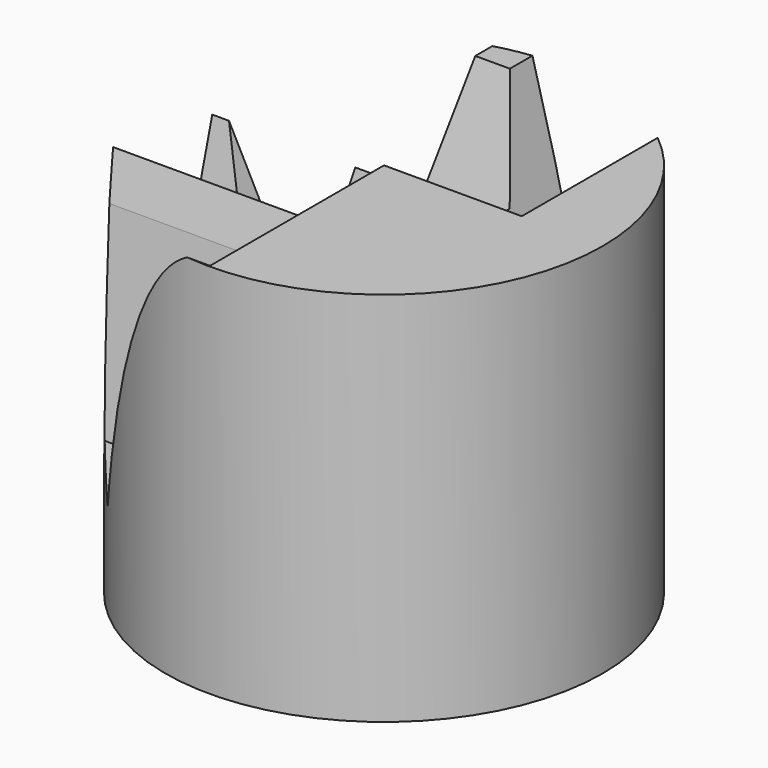
from build123d import *

# Parameters (mm, degrees)
F0_R      = 25
F1_DEPTH  = 43
F3_DEPTH  = 25.001
F5_DEPTH  = 25.001
F7_DEPTH  = 25.001
F9_DEPTH  = 25.001
F11_DEPTH = 25.001


with BuildPart() as f1:
    # F0 (on Top) → F1 (new body)
    with BuildSketch(Plane.XY):
        Circle(F0_R)
    extrude(amount=F1_DEPTH)

    # F2 (on Front) → F3 (cut, through all)
    with BuildSketch(Plane.XZ):
        Polygon((-25.126258, 46.368178), (-13.729673, 10.771434), (-6.131949, 46.368178), align=None)
    extrude(amount=-F3_DEPTH, mode=Mode.SUBTRACT)

    # F4 (on Right) → F5 (cut, through all)
    with BuildSketch(Plane.YZ):
        Polygon((-18.553859, 10.558189), (-9.720897, 43.07955), (-24.877457, 43.07955), align=None)
        Polygon((-8.875068, 43.07955), (0, 10.558189), (6.971865, 43.07955), align=None)
    extrude(amount=-F5_DEPTH, mode=Mode.SUBTRACT)

    # F6 (on Front) → F7 (cut, through all)
    with BuildSketch(Plane.XZ):
        Polygon((15.750895, 43.012153), (-2.902546, 43.012153), (5.133678, 10.685987), align=None)
    extrude(amount=-F7_DEPTH, mode=Mode.SUBTRACT)

    # F8 (on Right) → F9 (cut, through all)
    with BuildSketch(Plane.YZ):
        Polygon((-15.306979, 10.250338), (-10.540752, 43.066985), (-24.638727, 43.066985), align=None)
        Polygon((-10.504041, 43.066985), (-10.452851, 43.066985), (-10.504041, 43.319747), (-10.540752, 43.066985), align=None)
        Polygon((-3.806771, 10.250338), (4.882272, 43.066985), (-10.452851, 43.066985), align=None)
        Polygon((4.928349, 43.066985), (4.957838, 43.066985), (4.928349, 43.241009), (4.882272, 43.066985), align=None)
        Polygon((10.518654, 10.250338), (19.207697, 43.066985), (4.957838, 43.066985), align=None)
    extrude(amount=-F9_DEPTH, mode=Mode.SUBTRACT)

    # F10 (on Right) → F11 (cut, through all)
    with BuildSketch(Plane.YZ):
        Polygon((11.531889, 10.734837), (21.7263, 43.37864), (6.711997, 43.37864), align=None)
    extrude(amount=-F11_DEPTH, mode=Mode.SUBTRACT)


solid = f1.part
